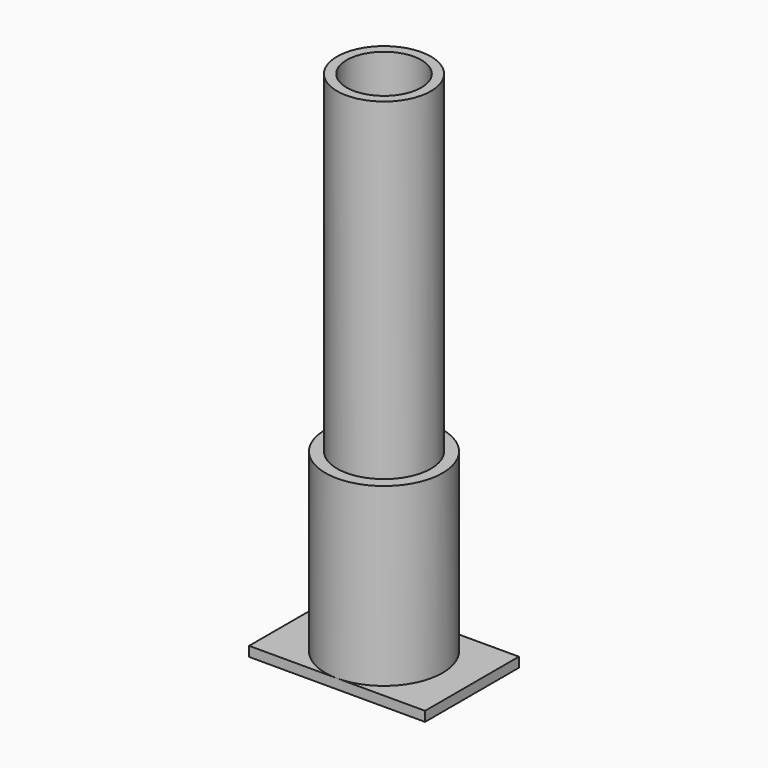
from build123d import *

# Parameters (mm, degrees)
F0_R     = 38.1
F1_DEPTH = 114.3
F2_R     = 30.48
F3_DEPTH = 215.9
F5_D     = 48.514
F5_DEPTH = 304.8
F5_TIP   = 14.5750760358
F6_W     = 114.3
F6_H     = 76.2
F7_DEPTH = 6.35


with BuildPart() as f1:
    # F0 (on Top) → F1 (new body)
    with BuildSketch(Plane.XY):
        Circle(F0_R)
    extrude(amount=F1_DEPTH)

    # F2 (on face) → F3 (join)
    with BuildSketch(Plane.XY.offset(114.3)):
        Circle(F2_R)
    extrude(amount=F3_DEPTH)

    # F5
    with Locations(Plane.XY.offset(330.2)):
        with Locations((0, 0)):
            Hole(F5_D / 2, depth=F5_DEPTH)
            with Locations((0, 0, -(F5_DEPTH + F5_TIP / 2))):  # 118° drill point
                Cone(0, F5_D / 2, F5_TIP, mode=Mode.SUBTRACT)

    # F6 (on Top) → F7 (join)
    with BuildSketch(Plane.XY):
        Rectangle(F6_W, F6_H)
    extrude(amount=-F7_DEPTH)


solid = f1.part
